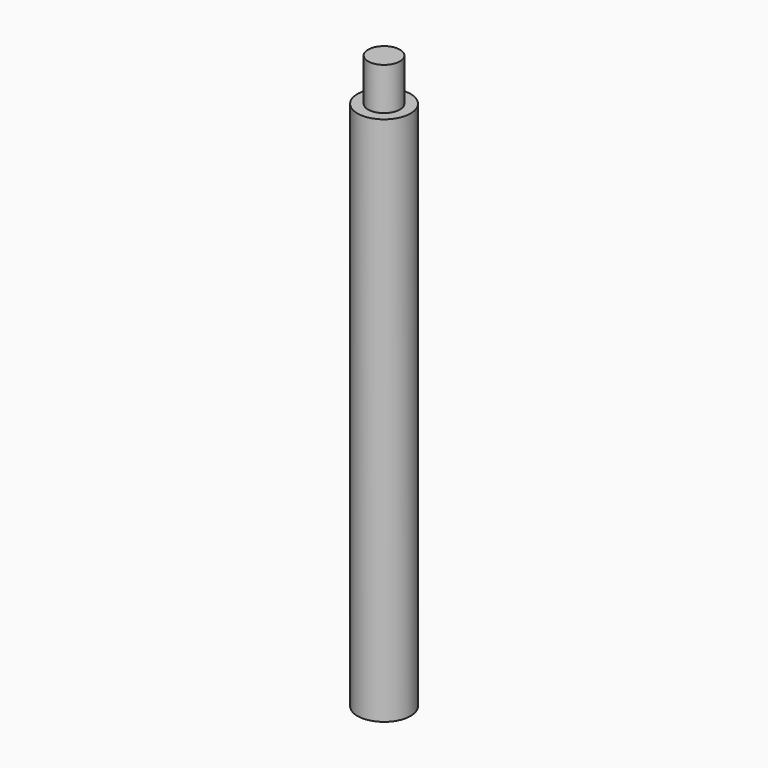
from build123d import *

# Parameters (mm, degrees)
OBJ1     = 5
EXTRUSION1_DEPTH = 100
OBJ2     = 3
EXTRUSION2_DEPTH = 8


with BuildPart() as extrusion1:
    with BuildSketch(Plane.XY):
        Circle(OBJ1)
    extrude(amount=EXTRUSION1_DEPTH)


with BuildPart() as extrusion2:
    with BuildSketch(Plane.XY.offset(100)):
        Circle(OBJ2)
    extrude(amount=EXTRUSION2_DEPTH)


solid = Compound([extrusion1.part, extrusion2.part])
